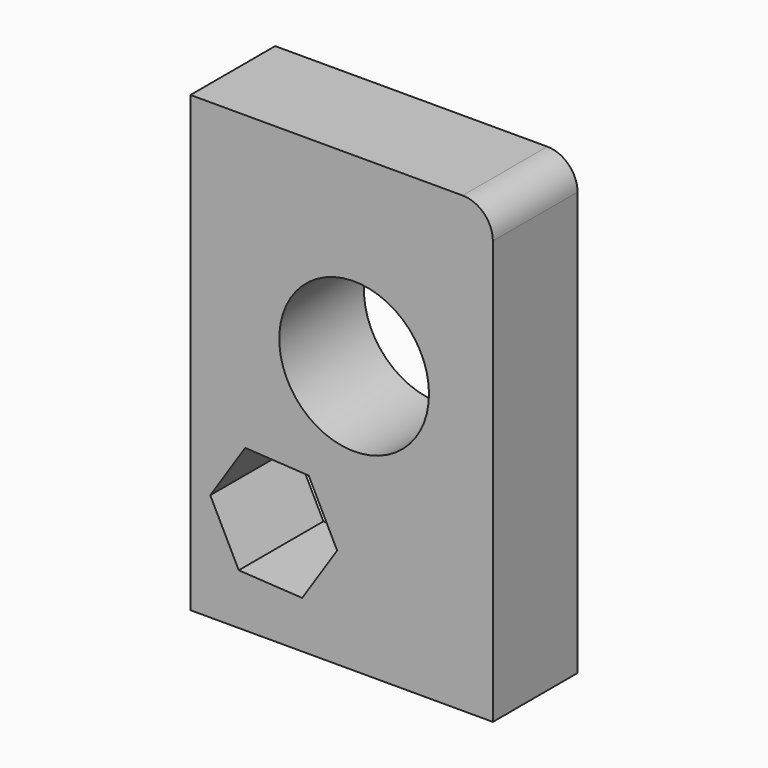
from build123d import *

# Parameters (mm, degrees)
F0_W     = 100
F0_H     = 150
F1_DEPTH = 35
F2_R     = 24.758071
F3_DEPTH = 93
F4_R     = 10


with BuildPart() as f1:
    # F0 (on Front) → F1 (new body)
    with BuildSketch(Plane.XZ):
        with Locations((1.924342, 24.967596)):
            Rectangle(F0_W, F0_H)
    extrude(amount=F1_DEPTH)

    # F2 (on face) → F3 (cut)
    with BuildSketch(Plane.XZ.offset(35)):
        with Locations((6.043291, 38.55627)):
            Circle(F2_R)
        Polygon((-11.134558, -34.447833), (0.429299, -16.902675), (-8.983325, 1.884497), (-29.959805, 3.126512), (-41.523662, -14.418645), (-32.111038, -33.205818), align=None)
    extrude(amount=-F3_DEPTH, mode=Mode.SUBTRACT)

    # F4
    f4_edges = [f1.edges().sort_by_distance(p)[0] for p in [
        (51.924342, -17.5, 99.967596),
    ]]
    fillet(f4_edges, radius=F4_R)


solid = f1.part
